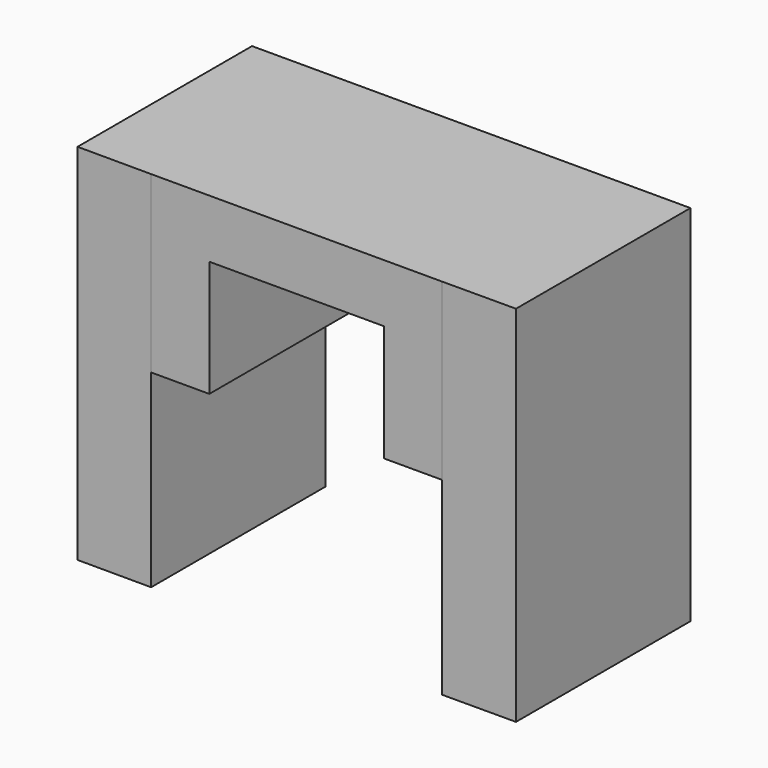
from build123d import *

# Parameters (mm, degrees)
F0_W     = 4
F0_H     = 15
F0_W_2   = 12
F1_DEPTH = 12
F2_DEPTH = 8
F4_DEPTH = 25


with BuildPart() as f1:
    # F0 (on Top) → F1 (new body)
    with BuildSketch(Plane.XY):
        with Locations((-8, 0)):
            Rectangle(F0_W, F0_H)
        Rectangle(F0_W_2, F0_H)
        with Locations((8, 0)):
            Rectangle(F0_W, F0_H)
    extrude(amount=F1_DEPTH)

    # F0 (on Top) → F2 (cut)
    with BuildSketch(Plane.XY):
        Rectangle(F0_W_2, F0_H)
    extrude(amount=F2_DEPTH, mode=Mode.SUBTRACT)

    # F3 (on face) → F4 (join)
    with BuildSketch(Plane.XY.offset(12)):
        Polygon((-10, -7.5), (-10, 7.5), (-15.066023, 7.5), (-15.066023, -7.486796), align=None)
        Polygon((15.066023, 7.5), (10, 7.5), (10, -7.5), (15.066023, -7.486796), align=None)
    extrude(amount=-F4_DEPTH)


solid = f1.part
